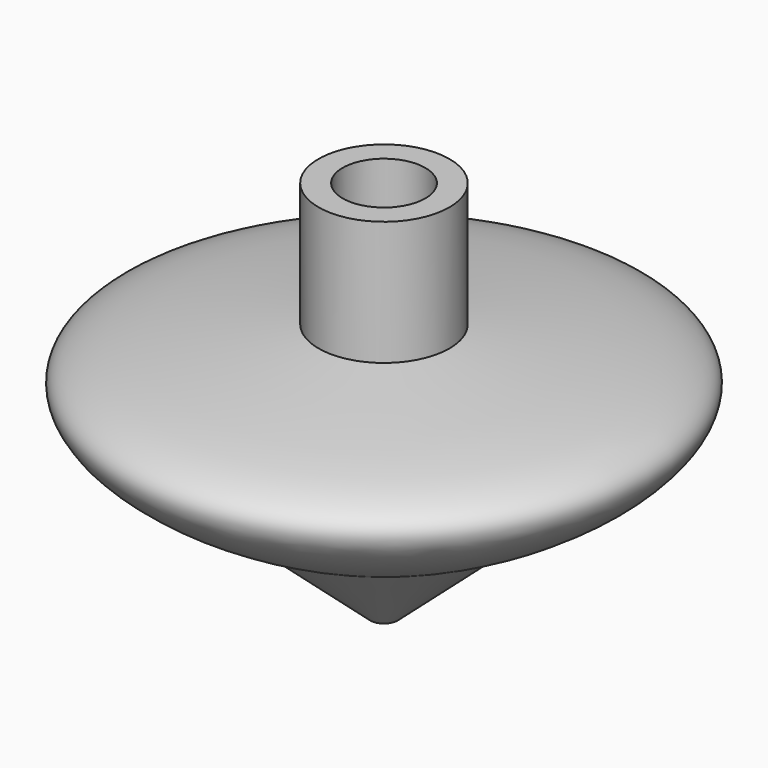
from build123d import *

# Parameters (mm, degrees)
F2_R     = 4.8133
F3_DEPTH = 9.6012
F4_R     = 1.6002
F5_DEPTH = 22.1742


with BuildPart() as f1:
    # F0 (on Front) → F1 (revolve)
    with BuildSketch(Plane.XZ):
        with BuildLine():
            add(Edge.make_bspline(
                [(15.24, 13.4404166602), (24.9512382846, 17.761113573), (38.4288212127, 28.2685653314), (20.5129507573, 29.7235381078), (7.62, 31.2529022536)],
                knots=[0, 0, 0, 0, 0.4770419895, 1, 1, 1, 1], degree=3))
            Line((7.62, 31.2529022536), (7.62, 45.72))
            Line((7.62, 45.72), (0, 45.72))
            Line((0, 45.72), (0, 0))
            Line((0, 0), (15.24, 13.4404166602))
        make_face()
    revolve(axis=Axis((0, 0, 22.86), (0, 0, -1)))

    # F2 (on face) → F3 (cut)
    with BuildSketch(Plane.XY.offset(45.72)):
        Circle(F2_R)
    extrude(amount=-F3_DEPTH, mode=Mode.SUBTRACT)

    # F4 (on Top) → F5 (cut)
    with BuildSketch(Plane.XY):
        Circle(F4_R)
    extrude(amount=F5_DEPTH, mode=Mode.SUBTRACT)


solid = f1.part
